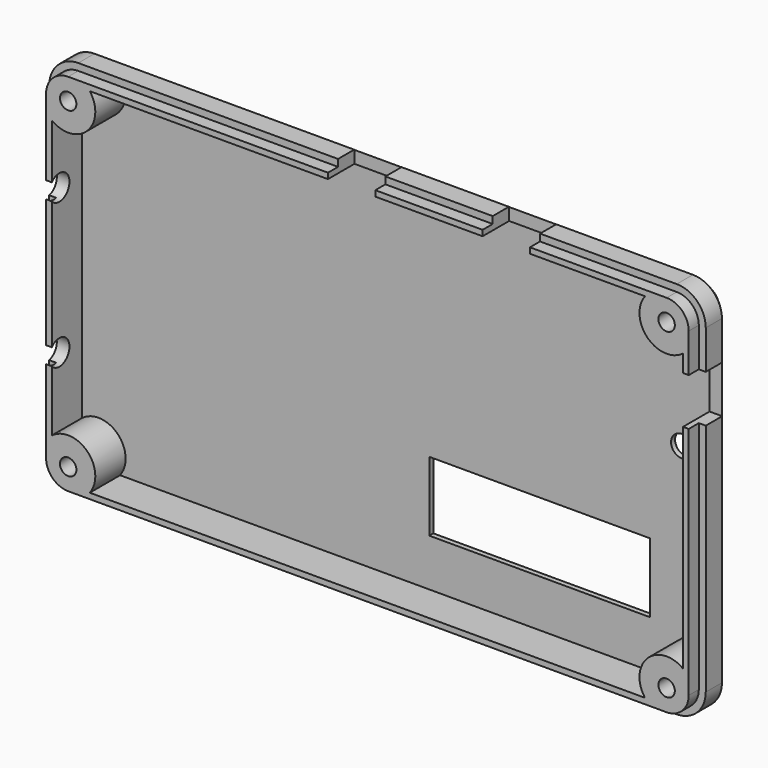
from build123d import *

# Parameters (mm, degrees)
CYLINDER001_R           = 2
CYLINDER001_DEPTH       = 10
SKETCH037_W             = 7.5
SKETCH037_H             = 7.5
EXTRUDE045_DEPTH        = 10
BOX089_W                = 11
BOX089_H                = 10
BOX089_DEPTH            = 35
BODY005_PLACEMENT_ANGLE = 90
BODY006_PLACEMENT_ANGLE = 90
CYLINDER003_R           = 2
CYLINDER003_DEPTH       = 10
CYLINDER002_R           = 1.7
CYLINDER002_DEPTH       = 10
SKETCH005_R             = 1.3
EXTRUDE003_DEPTH        = 20
EXTRUDE039_DEPTH        = 4
EXTRUDE042_DEPTH        = 0.8
EXTRUDE002_DEPTH        = 6
EXTRUDE037_DEPTH        = 2


with BuildPart() as battery_cable:
    # Cylinder001 → Cylinder001 (new body)
    with BuildSketch(Plane(origin=(-66.5, 0, 35), x_dir=(0, 0, 1), z_dir=(-1, 0, 0))):
        Circle(CYLINDER001_R)
    extrude(amount=CYLINDER001_DEPTH)


with BuildPart() as switch_hole002:
    # Sketch037 → Extrude045 (new body)
    with BuildSketch(Plane.YZ.offset(35)):
        with Locations((0, 38.5)):
            Rectangle(SKETCH037_W, SKETCH037_H)
    extrude(amount=EXTRUDE045_DEPTH)


with BuildPart() as switch_hole002_1:
    # Extrude045 placement: moved
    add(switch_hole002.part.moved(Location((-9.5, 0, 0))))


with BuildPart() as dips001:
    # Box089 → Box089 (new body)
    with BuildSketch(Plane(origin=(-15, 0.5, 13.5), x_dir=(0, 0, -1), z_dir=(1, 0, 0))):
        with Locations((5.5, 5)):
            Rectangle(BOX089_W, BOX089_H)
    extrude(amount=BOX089_DEPTH)


with BuildPart() as switch_hole001:
    # Body005 base: copy of switch hole002
    add(switch_hole002_1.part)


with BuildPart() as switch_hole001_1:
    # Body005 placement: moved
    add(switch_hole001.part.moved(Location((40.5, 0, 22))).rotate(Axis((40.5, 0, 22), (0, -1, 0)), BODY005_PLACEMENT_ANGLE))


with BuildPart() as switch_hole:
    # Body006 base: copy of switch hole002
    add(switch_hole002_1.part)


with BuildPart() as switch_hole_1:
    # Body006 placement: moved
    add(switch_hole.part.moved(Location((16, 0, 22))).rotate(Axis((16, 0, 22), (0, -1, 0)), BODY006_PLACEMENT_ANGLE))


with BuildPart() as cable:
    # Cylinder003 → Cylinder003 (new body)
    with BuildSketch(Plane(origin=(-65.5, 0, 12), x_dir=(0, -1, 0), z_dir=(-1, 0, 0))):
        Circle(CYLINDER003_R)
    extrude(amount=CYLINDER003_DEPTH)


with BuildPart() as common_sub:
    # Cylinder002 → Cylinder002 (new body)
    with BuildSketch(Plane(origin=(25, -1.5, 28), x_dir=(1, 0, 0), z_dir=(0, 1, 0))):
        Circle(CYLINDER002_R)
    extrude(amount=CYLINDER002_DEPTH)

    # Fusion033: union battery cable, switch hole002, dips001, switch hole001, switch hole, cable
    add(battery_cable.part)
    add(switch_hole002_1.part)
    add(dips001.part)
    add(switch_hole001_1.part)
    add(switch_hole_1.part)
    add(cable.part)


with BuildPart() as sweep001:
    # Sweep001: sweep along a path in Sketch034
    with BuildLine(Plane.XZ.offset(10)) as sweep001_path:
        Line((32, 12), (32, 48.4))
        ThreePointArc((32, 48.4), (30.652691, 51.652691), (27.4, 53))
        Line((27.4, 53), (-20, 53))
    # Sketch035 → Sweep001 (sweep)
    with BuildSketch(Plane.YZ):
        Polygon((5.3, 51.4), (3.7, 53), (3.7, 54), (6, 54), (6, 51.4), align=None)
    sweep(path=sweep001_path.line)


with BuildPart() as fusion030:
    # Sketch005 → Extrude003 (new body)
    with BuildSketch(Plane.XZ.offset(5)):
        with Locations((27.4, 48.5)):
            Circle(SKETCH005_R)
    extrude(amount=-EXTRUDE003_DEPTH)


with BuildPart() as fusion030_1:
    # Extrude003 placement: moved
    add(fusion030.part.moved(Location((0, -4, 0))))

    # Fusion030: union Sweep001
    add(sweep001.part)


with BuildPart() as top003:
    # Sketch028 → Extrude039 (new body)
    with BuildSketch(Plane.XZ.offset(10)):
        with BuildLine():
            ThreePointArc((32, 48.4), (30.652691, 51.652691), (27.4, 53))
            Line((27.4, 53), (-20, 53))
            Line((-20, 53), (-20, 51))
            Line((-20, 51), (27.4, 51))
            ThreePointArc((30, 48.4), (29.238478, 50.238478), (27.4, 51))
            Line((30, 23), (30, 48.4))
            Line((32, 23), (30, 23))
            Line((32, 48.4), (32, 23))
        make_face()
    extrude(amount=EXTRUDE039_DEPTH)


with BuildPart() as top003_1:
    # Extrude039 placement: moved
    add(top003.part.moved(Location((0, 14.5, 0))))


with BuildPart() as top002:
    # Sketch031 → Extrude042 (new body)
    with BuildSketch(Plane.XZ.offset(10)):
        with BuildLine():
            ThreePointArc((32, 48.4), (30.652691, 51.652691), (27.4, 53))
            Line((27.4, 53), (-20, 53))
            Line((-20, 53), (-20, 23))
            Line((-20, 23), (32, 23))
            Line((32, 48.4), (32, 23))
        make_face()
    extrude(amount=EXTRUDE042_DEPTH)


with BuildPart() as top002_1:
    # Extrude042 placement: moved
    add(top002.part.moved(Location((0, 15.3, 0))))


with BuildPart() as screw_hole_top:
    # Sketch004 → Extrude002 (new body)
    with BuildSketch(Plane.XZ.offset(10)):
        with BuildLine():
            ThreePointArc((23.975091, 51), (24.359441, 45.359441), (30, 44.975091))
            Line((30, 44.975091), (30, 48.4))
            ThreePointArc((30, 48.4), (29.238478, 50.238478), (27.4, 51))
            Line((23.975091, 51), (27.4, 51))
        make_face()
    extrude(amount=-EXTRUDE002_DEPTH)


with BuildPart() as screw_hole_top_1:
    # Extrude002 placement: moved
    add(screw_hole_top.part.moved(Location((0, 8.5, 0))))


with BuildPart() as top:
    # Sketch029 → Extrude037 (new body)
    with BuildSketch(Plane.XZ.offset(10)):
        with BuildLine():
            ThreePointArc((30.9, 48.4), (29.874874, 50.874874), (27.4, 51.9))
            Line((27.4, 51.9), (-20, 51.9))
            Line((-20, 51.9), (-20, 51))
            Line((-20, 51), (27.4, 51))
            ThreePointArc((30, 48.4), (29.238478, 50.238478), (27.4, 51))
            Line((30, 23), (30, 48.4))
            Line((30.9, 23), (30, 23))
            Line((30.9, 48.4), (30.9, 23))
        make_face()
    extrude(amount=EXTRUDE037_DEPTH)


with BuildPart() as top_1:
    # Extrude037 placement: moved
    add(top.part.moved(Location((0, 10.5, 0))))

    # Fusion028: union top003, top002, screw hole top
    add(top003_1.part)
    add(top002_1.part)
    add(screw_hole_top_1.part)

    # Cut024: cut Fusion030
    add(fusion030_1.part, mode=Mode.SUBTRACT)


with BuildPart() as part_mirroring:
    # Part__Mirroring: instance of top
    add(top_1.part.mirror(Plane(origin=(0, 0, 23), x_dir=(0, 1, 0), z_dir=(0, 0, 1))))


with BuildPart() as part_mirroring002:
    # Part__Mirroring002: instance of Part__Mirroring
    add(part_mirroring.part.mirror(Plane(origin=(-20, 1, 0), x_dir=(0, -1, 0), z_dir=(1, 0, 0))))


with BuildPart() as top007:
    # Part__Mirroring003: instance of top
    add(top_1.part.mirror(Plane(origin=(-20, 0, 0), x_dir=(0, -1, 0), z_dir=(1, 0, 0))))

    # Fusion032: union top, Part__Mirroring, Part__Mirroring002
    add(top_1.part)
    add(part_mirroring.part)
    add(part_mirroring002.part)

    # Cut025: cut common sub
    add(common_sub.part, mode=Mode.SUBTRACT)


solid = top007.part
